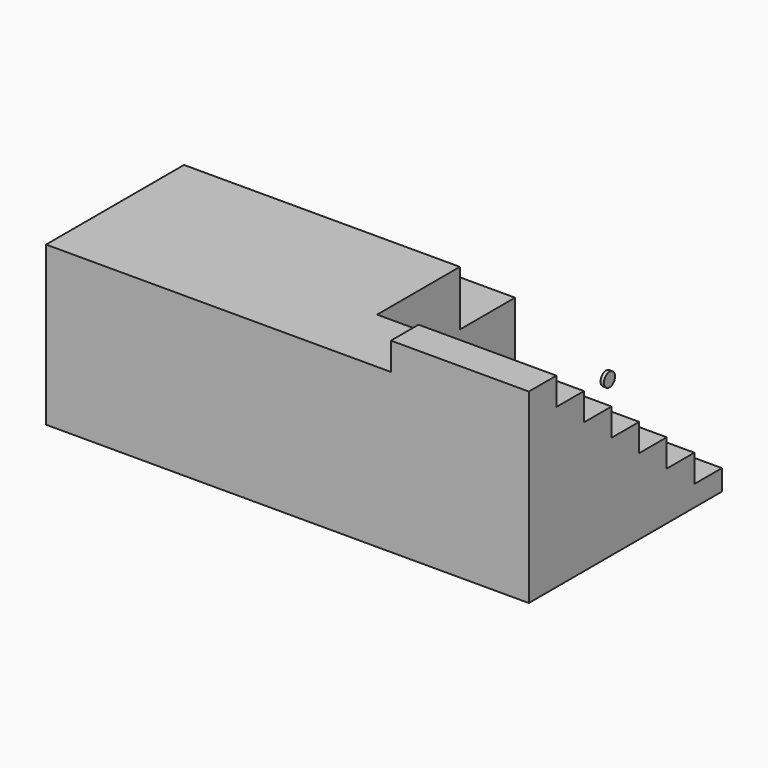
from build123d import *

# Parameters (mm, degrees)
F0_W      = 3500
F0_H      = 1750
F1_DEPTH  = 150
F2_W      = 1500
F2_H      = 1500
F3_DEPTH  = 200
F4_W      = 1500
F4_H      = 1250
F5_DEPTH  = 200
F6_W      = 1500
F6_H      = 1000
F7_DEPTH  = 200
F8_W      = 1500
F8_H      = 750
F9_DEPTH  = 200
F10_W     = 1500
F10_H     = 500
F11_DEPTH = 200
F12_R     = 50
F13_DEPTH = 25
F14_W     = 2000
F14_H     = 1250
F15_DEPTH = 1000
F16_W     = 2000
F16_H     = 500
F17_DEPTH = 600
F18_W     = 1000
F18_H     = 250
F19_DEPTH = 200


with BuildPart() as f1:
    # F0 (on Top) → F1 (new body)
    with BuildSketch(Plane.XY):
        with Locations((1750, 875)):
            Rectangle(F0_W, F0_H)
    extrude(amount=F1_DEPTH)

    # F2 (on face) → F3 (join)
    with BuildSketch(Plane.XY.offset(150)):
        with Locations((2750, 750)):
            Rectangle(F2_W, F2_H)
    extrude(amount=F3_DEPTH)

    # F4 (on face) → F5 (join)
    with BuildSketch(Plane.XY.offset(350)):
        with Locations((2750, 625)):
            Rectangle(F4_W, F4_H)
    extrude(amount=F5_DEPTH)

    # F6 (on face) → F7 (join)
    with BuildSketch(Plane.XY.offset(550)):
        with Locations((2750, 500)):
            Rectangle(F6_W, F6_H)
    extrude(amount=F7_DEPTH)

    # F8 (on face) → F9 (join)
    with BuildSketch(Plane.XY.offset(750)):
        with Locations((2750, 375)):
            Rectangle(F8_W, F8_H)
    extrude(amount=F9_DEPTH)

    # F10 (on face) → F11 (join)
    with BuildSketch(Plane.XY.offset(950)):
        with Locations((2750, 250)):
            Rectangle(F10_W, F10_H)
    extrude(amount=F11_DEPTH)

    # F14 (on face) → F15 (join)
    with BuildSketch(Plane.XY.offset(150)):
        with Locations((1000, 625)):
            Rectangle(F14_W, F14_H)
    extrude(amount=F15_DEPTH)

    # F16 (on face) → F17 (join)
    with BuildSketch(Plane.XY.offset(150)):
        with Locations((1000, 1500)):
            Rectangle(F16_W, F16_H)
    extrude(amount=F17_DEPTH)

    # F18 (on face) → F19 (join)
    with BuildSketch(Plane.XY.offset(1150)):
        with Locations((3000, 125)):
            Rectangle(F18_W, F18_H)
    extrude(amount=F19_DEPTH)


with BuildPart() as f13:
    # F12 (on face) → F13 (new body)
    with BuildSketch(Plane.YZ.offset(3500)):
        with Locations((700, 1150)):
            Circle(F12_R)
    extrude(amount=F13_DEPTH)


solid = Compound([f1.part, f13.part])
